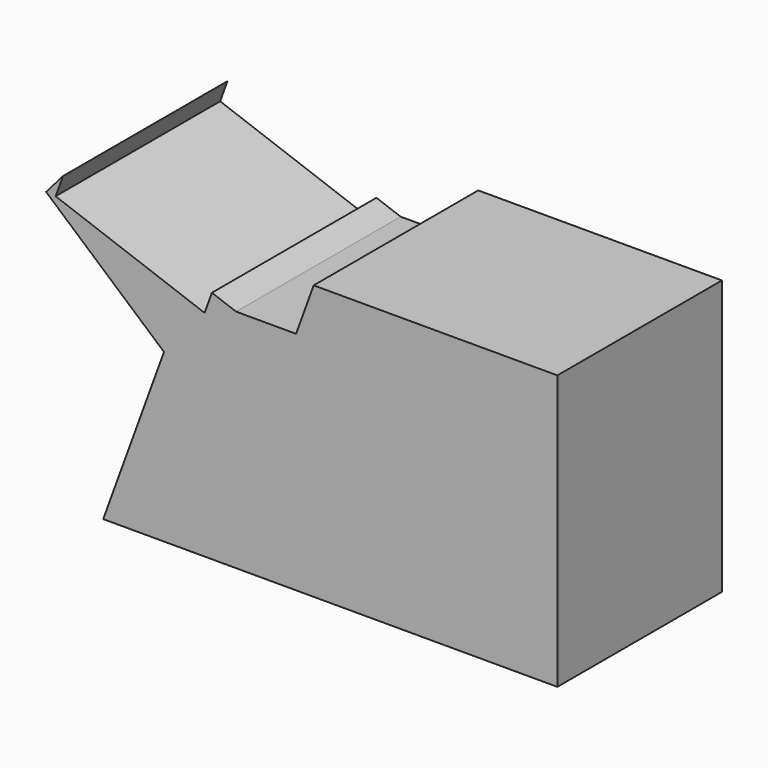
from build123d import *

# Parameters (mm, degrees)
F1_DEPTH = 240
F3_DEPTH = 240


with BuildPart() as f1:
    # F0 (on Front) → F1 (new body)
    with BuildSketch(Plane.XZ):
        Polygon((-265, 96.466075), (-265, 160), (-311.984631, 177.101007), (-331.674411, 154.466685), align=None)
        Polygon((265, -160), (265, 160), (0, 160), (-19.410668, 160), (-39.950718, 103.566676), (-109.950718, 103.566676), (-265, 160), (-265, 96.466075), (-194.101813, 34.791168), (-265, -160), align=None)
    extrude(amount=F1_DEPTH)

    # F2 (on face) → F3 (cut)
    with BuildSketch(Plane.XZ.offset(240)):
        Polygon((-138.141496, 113.827281), (-311.984631, 177.101007), (-320.535135, 153.608692), (-146.692, 90.334965), align=None)
    extrude(amount=-F3_DEPTH, mode=Mode.SUBTRACT)


solid = f1.part
